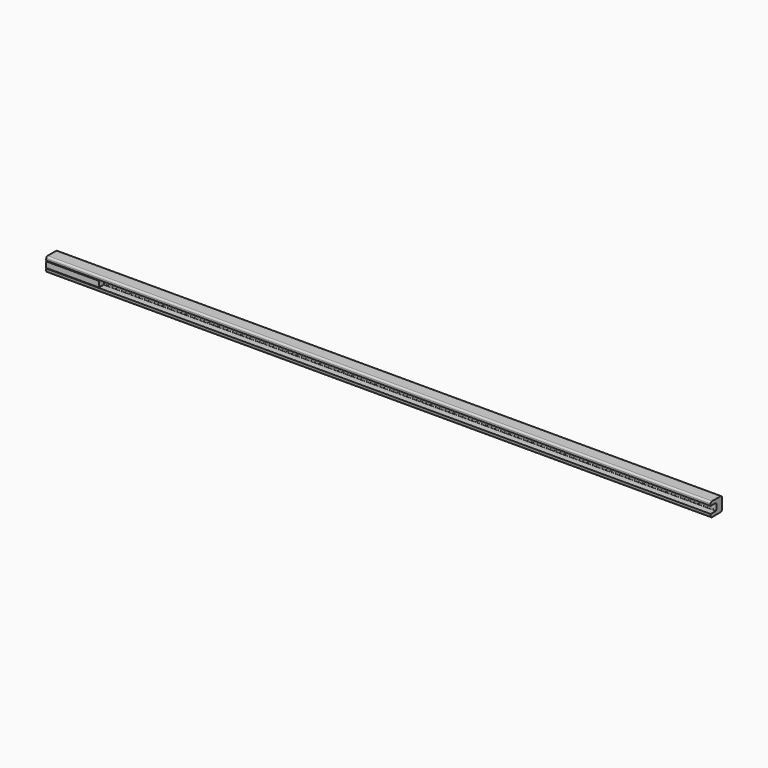
from build123d import *

# Parameters (mm, degrees)
F0_W     = 1884
F0_H     = 40
F1_DEPTH = 40
F2_R     = 5
F3_W     = 1884
F3_H     = 20
F4_DEPTH = 20
F5_W     = 18.351957
F5_H     = 16.340779
F6_DEPTH = 150
F7_R     = 2
F8_R     = 2


with BuildPart() as f1:
    # F0 (on Front) → F1 (new body)
    with BuildSketch(Plane.XZ):
        with Locations((-885.606991, 25.386653)):
            Rectangle(F0_W, F0_H)
    extrude(amount=F1_DEPTH)

    # F2
    f2_edges = [f1.edges().sort_by_distance(p)[0] for p in [
        (-885.606991, -40, 45.386653),
        (-885.606991, 0, 45.386653),
        (-885.606991, -40, 5.386653),
        (-885.606991, 0, 5.386653),
    ]]
    fillet(f2_edges, radius=F2_R)

    # F3 (on face) → F4 (cut)
    with BuildSketch(Plane.XZ.offset(40)):
        with Locations((-885.606991, 25.386653)):
            Rectangle(F3_W, F3_H)
    extrude(amount=-F4_DEPTH, mode=Mode.SUBTRACT)

    # F8
    f8_edges = [f1.edges().sort_by_distance(p)[0] for p in [
        (-885.606991, -20, 15.386653),
        (-885.606991, -20, 35.386653),
    ]]
    fillet(f8_edges, radius=F8_R)


with BuildPart() as f6:
    # F5 (on face) → F6 (new body)
    with BuildSketch(Plane(origin=(-1827.606991, 0, 0), x_dir=(0, -1, 0), z_dir=(-1, 0, 0))):
        with Locations((31.393159, 25.359637)):
            Rectangle(F5_W, F5_H)
    extrude(amount=-F6_DEPTH)

    # F7
    f7_edges = [f6.edges().sort_by_distance(p)[0] for p in [
        (-1752.606991, -22.217181, 33.530027),
        (-1752.606991, -22.217181, 17.189248),
    ]]
    fillet(f7_edges, radius=F7_R)


solid = Compound([f1.part, f6.part])
